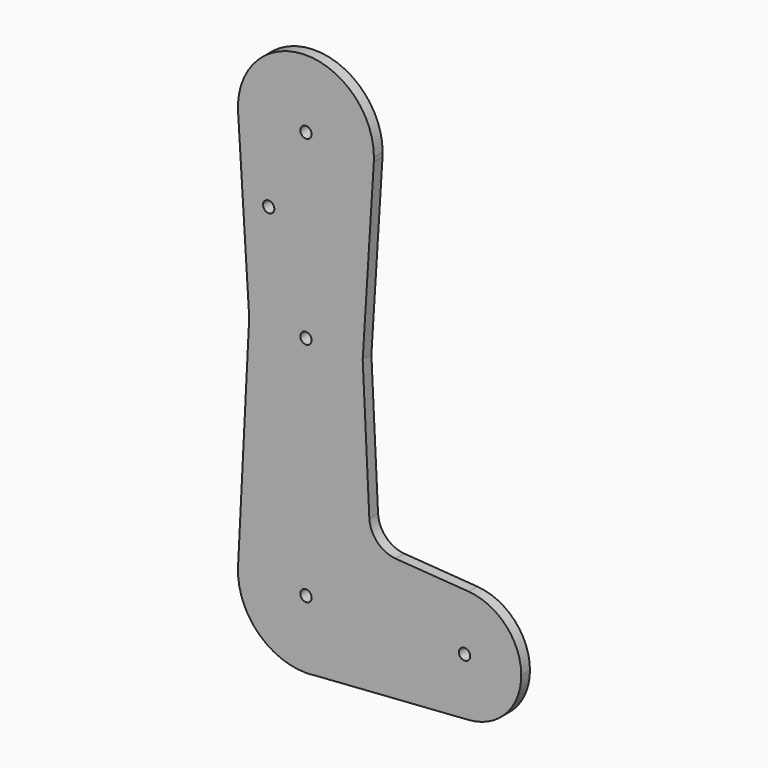
from build123d import *

# Parameters (mm, degrees)
F0_R     = 1.5875
F1_DEPTH = 3.048


with BuildPart() as f1:
    # F0 (on Front) → F1 (new body)
    with BuildSketch(Plane.XZ):
        with BuildLine():
            ThreePointArc((2.6743082177, -18.8613513714), (14.3848543883, -12.4891338461), (19.05, 0))
            ThreePointArc((19.05, 0), (0.4763992031, 19.0440422127), (-19.0261725774, 0.9525004235))
            ThreePointArc((-19.0261725774, 0.9525004235), (-13.8030364969, -13.1293062827), (0, -19.05))
            Line((0, -19.05), (2.6743082177, -18.8613513714))
        make_face()
        Circle(F0_R, mode=Mode.SUBTRACT)
        with BuildLine():
            ThreePointArc((-19.0261725774, 0.9525004235), (0.4763992031, 19.0440422127), (19.05, 0))
            Line((19.05, 0), (28.575, 0))
            ThreePointArc((28.575, 0), (33.6330108411, 11.6193102435), (45.5839285714, 15.8344507639))
            Line((45.5839285714, 15.8344507639), (25.1330658708, 17.2989674606))
            ThreePointArc((25.1330658708, 17.2989674606), (20.0143532381, 19.6729228807), (17.7599894, 24.8454200569))
            Line((17.7599894, 24.8454200569), (15.8989821959, 63.3863857925))
            Line((15.8989821959, 63.3863857925), (19.0127565626, 113.109375))
            ThreePointArc((19.0127565626, 113.109375), (0, 95.25), (-19.0127565626, 113.109375))
            Line((-19.0127565626, 113.109375), (-15.8998639519, 63.4004663068))
            Line((-15.8998639519, 63.4004663068), (-19.0261725774, 0.9525004235))
        make_face()
        with Locations((0, 63.5)):
            Circle(F0_R, mode=Mode.SUBTRACT)
        with Locations((-10.4428892955, 92.5013944507)):
            Circle(F0_R, mode=Mode.SUBTRACT)
        with BuildLine():
            Line((28.575, 0), (19.05, 0))
            ThreePointArc((19.05, 0), (14.3848543883, -12.4891338461), (2.6743082177, -18.8613513714))
            Line((2.6743082177, -18.8613513714), (45.5670640422, -15.8356494318))
            ThreePointArc((45.5670640422, -15.8356494318), (33.6268250192, -11.6135484816), (28.575, 0))
        make_face()
        with BuildLine():
            ThreePointArc((45.5839285714, 15.8344507639), (33.6330108411, 11.6193102435), (28.575, 0))
            ThreePointArc((28.575, 0), (33.6268250192, -11.6135484816), (45.5670640422, -15.8356494318))
            ThreePointArc((45.5670640422, -15.8356494318), (56.0635484816, -10.8231749808), (60.325, 0))
            ThreePointArc((60.325, 0), (56.0693102435, 10.8169891589), (45.5839285714, 15.8344507639))
        make_face()
        with BuildLine():
            ThreePointArc((46.0375, 0), (44.45, -1.5875), (42.8625, 0))
            ThreePointArc((42.8625, 0), (44.45, 1.5875), (46.0375, 0))
        make_face(mode=Mode.SUBTRACT)
        with BuildLine():
            ThreePointArc((0, -19.05), (1.3404768506, -19.0027793181), (2.6743082177, -18.8613513714))
            Line((2.6743082177, -18.8613513714), (0, -19.05))
        make_face()
        with BuildLine():
            ThreePointArc((19.05, 114.3), (-0.5956036778, 133.3406868642), (-19.0127565626, 113.109375))
            ThreePointArc((-19.0127565626, 113.109375), (0, 95.25), (19.0127565626, 113.109375))
            ThreePointArc((19.0127565626, 113.109375), (19.0406868642, 113.7043963222), (19.05, 114.3))
        make_face()
        with Locations((0, 114.3)):
            Circle(F0_R, mode=Mode.SUBTRACT)
    extrude(amount=-F1_DEPTH)


solid = f1.part
